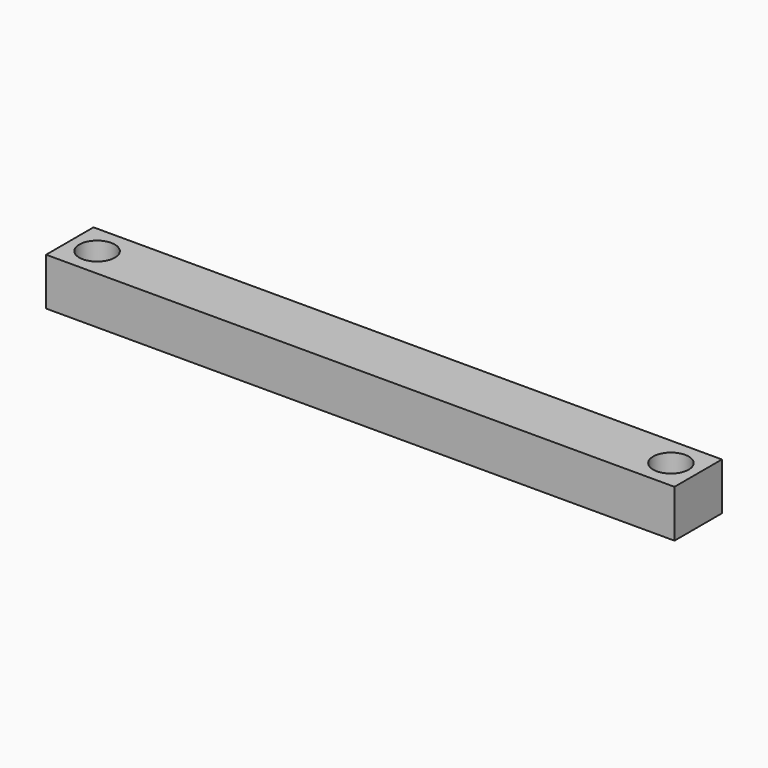
from build123d import *

# Parameters (mm, degrees)
SKETCH_W  = 53
SKETCH_H  = 5
SKETCH_R  = 1.5
PAD_DEPTH = 4


with BuildPart() as part:
    # Sketch → Pad (new body)
    with BuildSketch(Plane.XY):
        Rectangle(SKETCH_W, SKETCH_H)
        with Locations((-24.2, 0)):
            Circle(SKETCH_R, mode=Mode.SUBTRACT)
        with Locations((24.2, 0)):
            Circle(SKETCH_R, mode=Mode.SUBTRACT)
    extrude(amount=PAD_DEPTH)


solid = part.part
